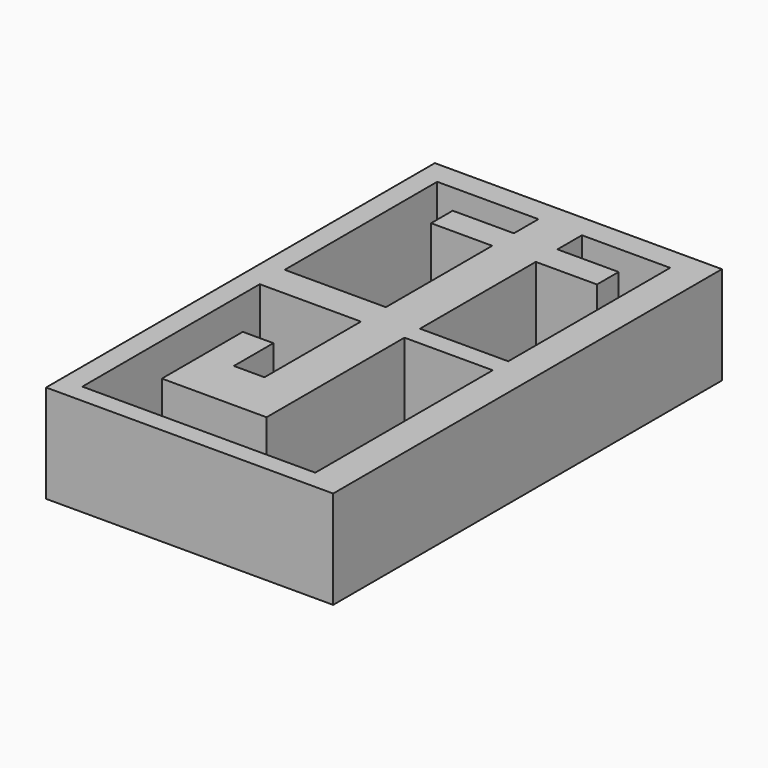
from build123d import *

# Parameters (mm, degrees)
F0_W     = 74.371204
F0_H     = 125.882398
F0_W_2   = 11.277599
F0_H_2   = 7.924802
F1_DEPTH = 25.4


with BuildPart() as f1:
    # F0 (on Top) → F1 (new body)
    with BuildSketch(Plane.XY):
        with Locations((-21.6408, -11.582399)):
            Rectangle(F0_W, F0_H)
        Polygon((-53.340001, -4.1148), (-53.340001, 45.262802), (-27.1272, 45.262802), (-15.849601, 45.262802), (7.010401, 45.262802), (7.010401, -7.1628), (7.010401, -12.191998), (7.010401, -69.646798), (-53.340001, -69.646798), (-53.340001, -12.191998), align=None, mode=Mode.SUBTRACT)
        Polygon((-27.1272, -4.1148), (-53.340001, -4.1148), (-53.340001, -12.191998), (-27.1272, -12.191998), (-27.1272, -43.434002), (-35.052001, -43.434002), (-35.052001, -30.632401), (-42.9768, -30.632401), (-42.9768, -56.845203), (-15.849601, -56.845203), (-15.849601, -12.191998), (7.010401, -12.191998), (7.010401, -7.1628), (-15.849601, -7.1628), (-15.849601, 30.327601), (0, 30.327601), (0, 37.338), (-15.849601, 37.338), (-27.1272, 37.338), (-42.9768, 37.338), (-42.9768, 30.327601), (-27.1272, 30.327601), align=None)
        with Locations((-21.4884, 41.300401)):
            Rectangle(F0_W_2, F0_H_2)
    extrude(amount=F1_DEPTH)


solid = f1.part
